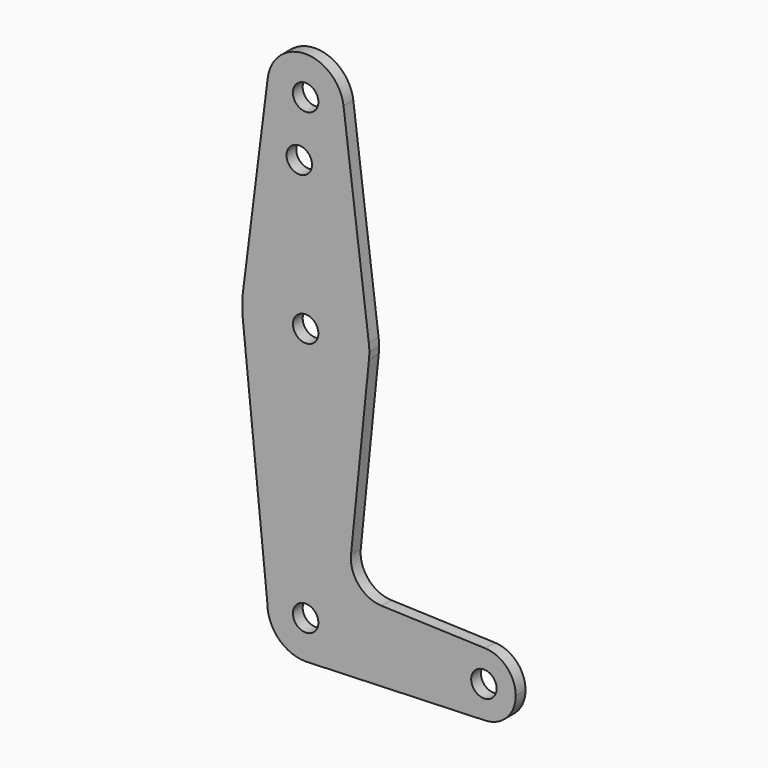
from build123d import *

# Parameters (mm, degrees)
F0_R     = 3.175
F1_DEPTH = 3.048


with BuildPart() as f1:
    # F0 (on Front) → F1 (new body)
    with BuildSketch(Plane.XZ):
        with BuildLine():
            ThreePointArc((15.794203, 61.900381), (0.193616, 47.626181), (-15.750488, 61.515625))
            Line((-15.750488, 61.515625), (-15.750488, 61.468755))
            Line((-15.750488, 61.468755), (-9.525, 0))
            ThreePointArc((-9.525, 0), (0, 9.525), (9.525, 0))
            ThreePointArc((9.525, 0), (6.970557, -6.491299), (0.677344, -9.500886))
            Line((0.677344, -9.500886), (44.732405, -7.932475))
            ThreePointArc((44.732405, -7.932475), (36.5125, 0), (44.732405, 7.932475))
            Line((44.732405, 7.932475), (18.934103, 8.850924))
            ThreePointArc((18.934103, 8.850924), (13.224974, 11.57098), (11.307223, 17.59718))
            Line((11.307223, 17.59718), (15.794203, 61.900381))
        make_face()
        with BuildLine():
            ThreePointArc((9.525, 0), (0, 9.525), (-9.525, 0))
            ThreePointArc((-9.525, 0), (-6.735192, -6.735192), (0, -9.525))
            Line((0, -9.525), (0.677344, -9.500886))
            ThreePointArc((0.677344, -9.500886), (6.970557, -6.491299), (9.525, 0))
        make_face()
        Circle(F0_R, mode=Mode.SUBTRACT)
        with BuildLine():
            ThreePointArc((52.3875, 0), (50.161633, 5.51191), (44.732405, 7.932475))
            ThreePointArc((44.732405, 7.932475), (36.5125, 0), (44.732405, -7.932475))
            ThreePointArc((44.732405, -7.932475), (50.161633, -5.51191), (52.3875, 0))
        make_face()
        with Locations((44.45, 0)):
            Circle(F0_R, mode=Mode.SUBTRACT)
        with BuildLine():
            ThreePointArc((15.875, 63.5), (15.843841, 64.494139), (15.750488, 65.484375))
            ThreePointArc((15.750488, 65.484375), (0, 79.375), (-15.750488, 65.484375))
            Line((-15.750488, 65.484375), (-15.750488, 61.515625))
            ThreePointArc((-15.750488, 61.515625), (0.193616, 47.626181), (15.794203, 61.900381))
            ThreePointArc((15.794203, 61.900381), (15.854788, 62.699171), (15.875, 63.5))
        make_face()
        with Locations((0, 63.5)):
            Circle(F0_R, mode=Mode.SUBTRACT)
        with BuildLine():
            ThreePointArc((-9.450293, 115.490625), (-0.596483, 104.793695), (9.525, 114.3))
            ThreePointArc((9.525, 114.3), (9.506305, 114.896483), (9.450293, 115.490625))
            ThreePointArc((9.450293, 115.490625), (0, 123.825), (-9.450293, 115.490625))
        make_face()
        with Locations((0, 114.3)):
            Circle(F0_R, mode=Mode.SUBTRACT)
        with BuildLine():
            ThreePointArc((9.450293, 115.490625), (9.506305, 114.896483), (9.525, 114.3))
            ThreePointArc((9.525, 114.3), (-0.596483, 104.793695), (-9.450293, 115.490625))
            Line((-9.450293, 115.490625), (-15.750488, 65.484375))
            ThreePointArc((-15.750488, 65.484375), (0, 79.375), (15.750488, 65.484375))
            Line((15.750488, 65.484375), (9.450293, 115.490625))
        make_face()
        with Locations((-1.5875, 100.0252)):
            Circle(F0_R, mode=Mode.SUBTRACT)
    extrude(amount=-F1_DEPTH)


solid = f1.part
